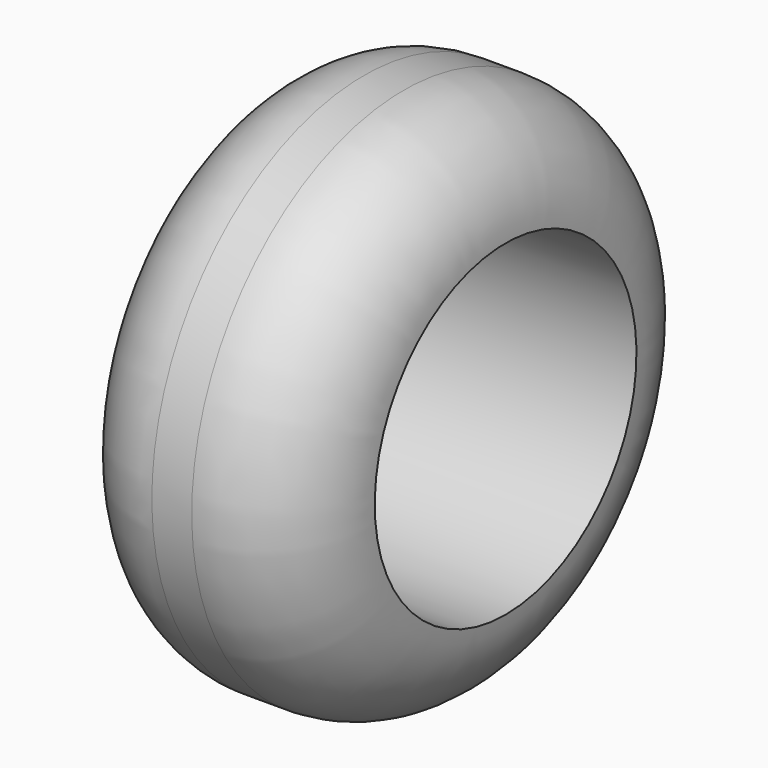
from build123d import *

# Parameters (mm, degrees)
F0_W     = 60.7525799423
F0_H     = 66.2546996027
F2_R     = 25.4
F3_DEPTH = 127


with BuildPart() as f1:
    # F0 (on Front) → F1 (revolve)
    with BuildSketch(Plane.XZ):
        with Locations((1.3755289838, 3.4388257191)):
            Rectangle(F0_W, F0_H)
    revolve(axis=Axis((1.3755289838, 0, 36.5661755204), (1, 0, 0)))

    # F2
    f2_edges = [f1.edges().sort_by_distance(p)[0] for p in [
        (31.751819, 0, 102.820875),
        (-29.000761, 0, 102.820875),
    ]]
    fillet(f2_edges, radius=F2_R)

    # F3 (cut): a face of the model
    f3_faces = [f1.faces().sort_by_distance(p)[0] for p in [
        (31.7518189549, 0, 36.5661755204),
    ]]
    extrude(f3_faces, amount=-F3_DEPTH, mode=Mode.SUBTRACT)


solid = f1.part
